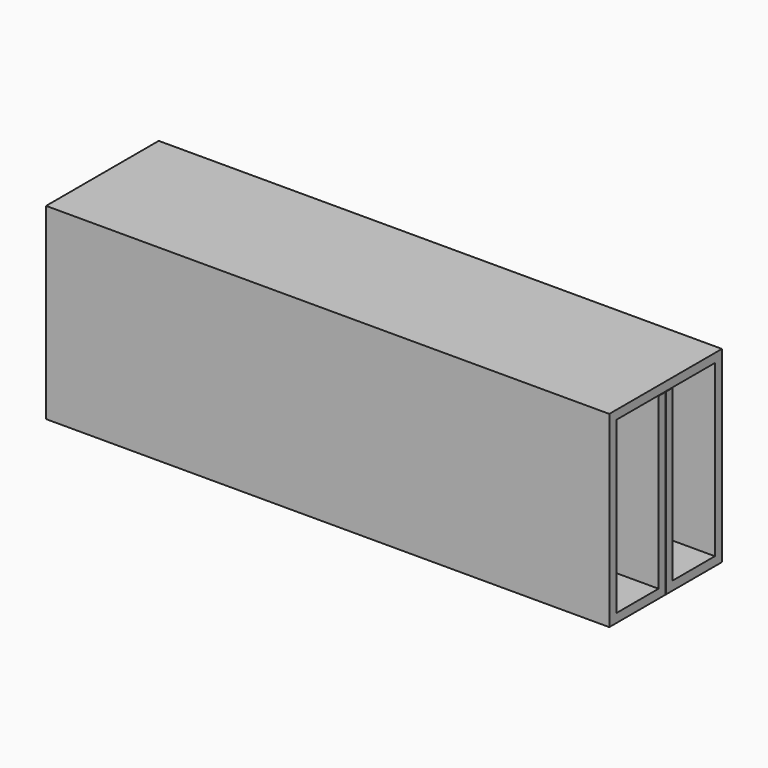
from build123d import *

# Parameters (mm, degrees)
F1_DEPTH = 152.4


with BuildPart() as f1:
    # F0 (on Right) → F1 (new body, symmetric)
    with BuildSketch(Plane.YZ):
        Polygon((38.1, 101.6), (-38.1, 101.6), (-38.1, 0), (-0.127, 0), (-0.127, 96.5835), (-4.7625, 96.5835), (-4.7625, 4.7625), (-33.3375, 4.7625), (-33.3375, 96.8375), (33.3375, 96.8375), (33.3375, 4.7625), (4.7625, 4.7625), (4.7625, 96.5835), (0.127, 96.5835), (0.127, 0), (38.1, 0), align=None)
    extrude(amount=F1_DEPTH, both=True)


solid = f1.part
